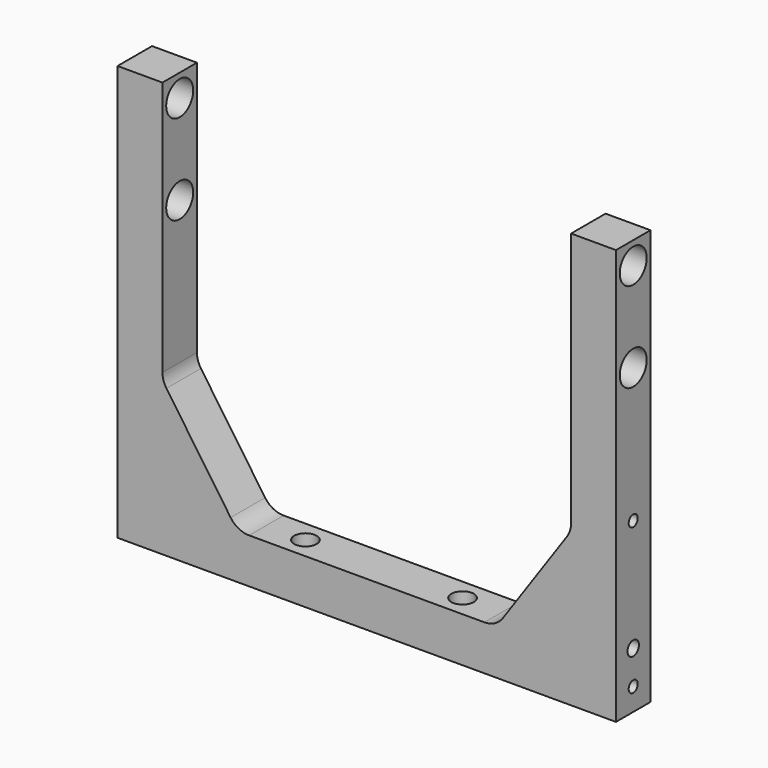
from build123d import *

# Parameters (mm, degrees)
F1_DEPTH  = 6.096
F2_R      = 4.7625
F3_DEPTH  = 140.971
F4_R      = 3.175
F5_DEPTH  = 117.476
F6_R      = 2.0193
F6_R_2    = 1.6002
F7_DEPTH  = 12.7
F8_R      = 1.6002
F8_R_2    = 2.0193
F9_DEPTH  = 10.16
F10_R     = 1.6002
F10_R_2   = 2.0193
F11_DEPTH = 10.16


with BuildPart() as f1:
    # F0 (on Front) → F1 (new body, symmetric)
    with BuildSketch(Plane.XZ):
        with BuildLine():
            Line((-70.485, 0), (0, 0))
            Line((0, 0), (70.485, 0))
            Line((70.485, 0), (70.485, 117.475))
            Line((70.485, 117.475), (57.785, 117.475))
            Line((57.785, 117.475), (57.785, 45.3136))
            ThreePointArc((57.785, 45.3136), (57.4966846366, 43.4219130898), (56.6579198847, 41.7020064627))
            Line((56.6579198847, 41.7020064627), (38.4969198847, 15.4384064627))
            ThreePointArc((38.4969198847, 15.4384064627), (36.2226336699, 13.426117046), (33.274, 12.7))
            Line((33.274, 12.7), (0, 12.7))
            Line((0, 12.7), (-33.274, 12.7))
            ThreePointArc((-33.274, 12.7), (-36.2226336699, 13.426117046), (-38.4969198847, 15.4384064627))
            Line((-38.4969198847, 15.4384064627), (-56.6579198847, 41.7020064627))
            ThreePointArc((-56.6579198847, 41.7020064627), (-57.4966846366, 43.4219130898), (-57.785, 45.3136))
            Line((-57.785, 45.3136), (-57.785, 117.475))
            Line((-57.785, 117.475), (-70.485, 117.475))
            Line((-70.485, 117.475), (-70.485, 0))
        make_face()
    extrude(amount=F1_DEPTH, both=True)

    # F2 (on face) → F3 (cut, through all)
    with BuildSketch(Plane.YZ.offset(70.485)):
        with Locations((0, 111.125)):
            Circle(F2_R)
        with Locations((0, 85.725)):
            Circle(F2_R)
    extrude(amount=-F3_DEPTH, mode=Mode.SUBTRACT)

    # F4 (on face) → F5 (cut, through all)
    with BuildSketch(Plane(origin=(0, 0, 0), x_dir=(1, 0, 0), z_dir=(0, 0, -1))):
        with Locations((-22.225, 0)):
            Circle(F4_R)
        with Locations((22.225, 0)):
            Circle(F4_R)
    extrude(amount=-F5_DEPTH, mode=Mode.SUBTRACT)

    # F6 (on face) → F7 (cut)
    with BuildSketch(Plane(origin=(0, 0, 0), x_dir=(1, 0, 0), z_dir=(0, 0, -1))):
        with Locations((-50.8, 0)):
            Circle(F6_R)
        with Locations((-58.293, 0)):
            Circle(F6_R_2)
        with Locations((50.8, 0)):
            Circle(F6_R)
        with Locations((58.293, 0)):
            Circle(F6_R_2)
    extrude(amount=-F7_DEPTH, mode=Mode.SUBTRACT)

    # F8 (on face) → F9 (cut)
    with BuildSketch(Plane.YZ.offset(70.485)):
        with Locations((0, 6.35)):
            Circle(F8_R)
        with Locations((0, 47.625)):
            Circle(F8_R)
        with Locations((0, 15.875)):
            Circle(F8_R_2)
    extrude(amount=-F9_DEPTH, mode=Mode.SUBTRACT)

    # F10 (on face) → F11 (cut)
    with BuildSketch(Plane(origin=(-70.485, 0, 0), x_dir=(0, -1, 0), z_dir=(-1, 0, 0))):
        with Locations((0, 6.35)):
            Circle(F10_R)
        with Locations((0, 15.875)):
            Circle(F10_R_2)
        with Locations((0, 47.625)):
            Circle(F10_R)
    extrude(amount=-F11_DEPTH, mode=Mode.SUBTRACT)


solid = f1.part
